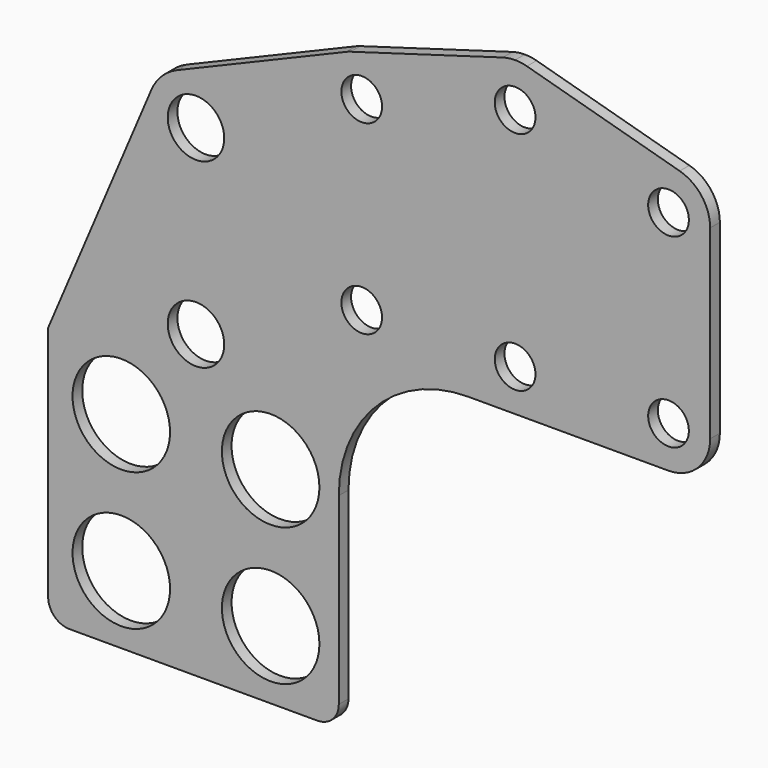
from build123d import *

# Parameters (mm, degrees)
F0_R     = 19.177
F0_R_2   = 11.1125
F0_R_3   = 8.001
F1_DEPTH = 4.7625


with BuildPart() as f1:
    # F0 (on Front) → F1 (new body)
    with BuildSketch(Plane.XZ):
        with BuildLine():
            ThreePointArc((0, 8.382), (2.455031, 2.455031), (8.382, 0))
            Line((8.382, 0), (105.918, 0))
            ThreePointArc((105.918, 0), (111.844969, 2.455031), (114.3, 8.382))
            Line((114.3, 8.382), (114.3, 80.645))
            ThreePointArc((114.3, 80.645), (129.178976, 116.566024), (165.1, 131.445))
            Line((165.1, 131.445), (243.967, 131.445))
            ThreePointArc((243.967, 131.445), (255.55153, 136.24347), (260.35, 147.828))
            Line((260.35, 147.828), (260.35, 220.853))
            ThreePointArc((260.35, 220.853), (257.013104, 230.762685), (248.361737, 236.635553))
            Line((248.361737, 236.635553), (188.275211, 253.36697))
            ThreePointArc((188.275211, 253.36697), (185.980128, 253.841011), (183.642, 254))
            ThreePointArc((183.642, 254), (181.19937, 253.826408), (178.80584, 253.30912))
            Line((178.80584, 253.30912), (118.94312, 235.84916))
            ThreePointArc((118.94312, 235.84916), (118.094256, 235.575044), (117.262422, 235.252921))
            Line((117.262422, 235.252921), (50.745696, 207.285359))
            ThreePointArc((50.745696, 207.285359), (44.679286, 203.216493), (40.588503, 197.16484))
            Line((40.588503, 197.16484), (0, 101.6))
            Line((0, 101.6), (0, 8.382))
        make_face()
        with Locations((28.7655, 26.797)):
            Circle(F0_R, mode=Mode.SUBTRACT)
        with Locations((87.503, 26.797)):
            Circle(F0_R, mode=Mode.SUBTRACT)
        with Locations((28.7655, 81.026)):
            Circle(F0_R, mode=Mode.SUBTRACT)
        with Locations((58.13425, 118.275273)):
            Circle(F0_R_2, mode=Mode.SUBTRACT)
        with Locations((87.503, 81.026)):
            Circle(F0_R, mode=Mode.SUBTRACT)
        with Locations((58.13425, 189.712773)):
            Circle(F0_R_2, mode=Mode.SUBTRACT)
        with Locations((123.317, 147.828)):
            Circle(F0_R_3, mode=Mode.SUBTRACT)
        with Locations((123.317, 220.853)):
            Circle(F0_R_3, mode=Mode.SUBTRACT)
        with Locations((183.642, 147.828)):
            Circle(F0_R_3, mode=Mode.SUBTRACT)
        with Locations((243.967, 147.828)):
            Circle(F0_R_3, mode=Mode.SUBTRACT)
        with Locations((183.642, 236.728)):
            Circle(F0_R_3, mode=Mode.SUBTRACT)
        with Locations((243.967, 220.853)):
            Circle(F0_R_3, mode=Mode.SUBTRACT)
    extrude(amount=F1_DEPTH)


solid = f1.part
